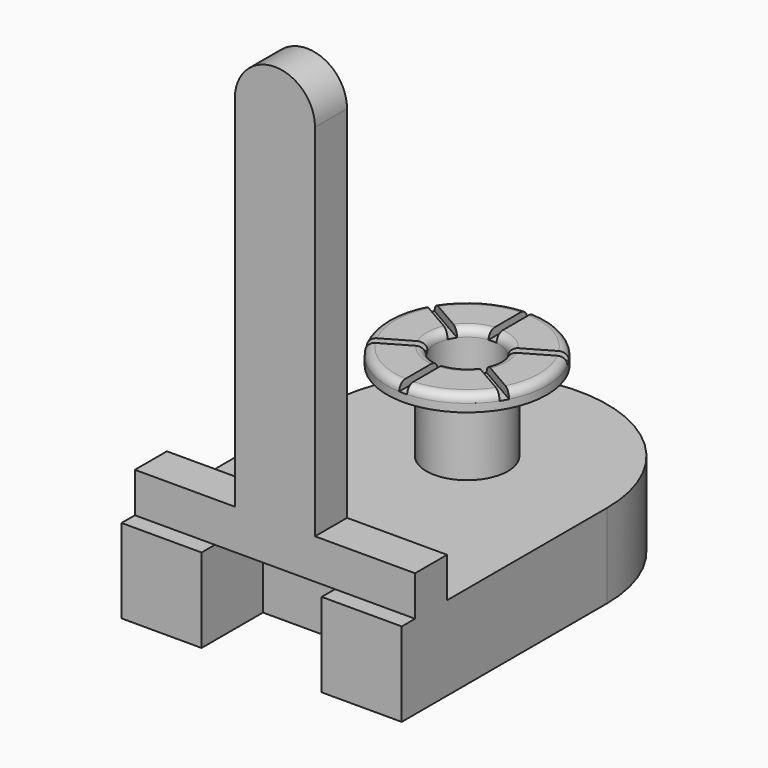
from build123d import *

# Parameters (mm, degrees)
SKETCH057_R           = 0.5
SKETCH057_W           = 1.5
SKETCH057_H           = 1
PAD032_DEPTH          = 0.5
PAD032_DEPTH_BACK     = 0.55
SKETCH058_W           = 4.919434
SKETCH058_H           = 5.037946
POCKET024_DEPTH       = 1.05
POCKET024_DEPTH_BACK  = 1.55
SKETCH063_W           = 1.496239
SKETCH063_H           = 0.320585
POCKET027_DEPTH       = 5
SKETCH059_R           = 0.51
SKETCH059_R_2         = 0.4
PAD033_DEPTH          = 1.5
SKETCH060_R           = 1
PAD034_DEPTH          = 0.2
SKETCH061_R           = 0.4
POCKET025_DEPTH       = 1
FILLET026_R           = 0.1
SKETCH062_W           = 0.1
SKETCH062_H           = 1.784702
POCKET026_DEPTH       = 0.1
POLARPATTERN007_COUNT = 6
PAD035_DEPTH          = 0.25


with BuildPart() as part:
    # Sketch057 → Pad032 (new body, two sides)
    with BuildSketch(Plane.XY) as pad032_sk:
        with BuildLine():
            ThreePointArc((1.75, 0), (0, 1.75), (-1.75, 0))
            Line((-1.75, 0), (-1.75, -4.25))
            Line((-1.75, -4.25), (-1.75, -8))
            Line((-1.75, -8), (1.75, -8))
            Line((1.75, -8), (1.75, -4.25))
            Line((1.75, -4.25), (1.75, 0))
        make_face()
        Circle(SKETCH057_R, mode=Mode.SUBTRACT)
        with Locations((0, -2.75)):
            Rectangle(SKETCH057_W, SKETCH057_H, mode=Mode.SUBTRACT)
    extrude(amount=PAD032_DEPTH)
    extrude(pad032_sk.sketch, amount=-PAD032_DEPTH_BACK)

    # Sketch058 → Pocket024 (cut, two sides)
    with BuildSketch(Plane.XY) as pocket024_sk:
        with Locations((-0.357018, -5.727314)):
            Rectangle(SKETCH058_W, SKETCH058_H)
    extrude(amount=-POCKET024_DEPTH, mode=Mode.SUBTRACT)
    extrude(pocket024_sk.sketch, amount=POCKET024_DEPTH_BACK, mode=Mode.SUBTRACT)

    # Sketch063 → Pocket027 (cut)
    with BuildSketch(Plane.XY):
        with Locations((-0.005068, -3.405655)):
            Rectangle(SKETCH063_W, SKETCH063_H)
    extrude(amount=-POCKET027_DEPTH, mode=Mode.SUBTRACT)

    # Sketch059 → Pad033 (join)
    with BuildSketch(Plane.XY):
        Circle(SKETCH059_R)
        Circle(SKETCH059_R_2, mode=Mode.SUBTRACT)
    extrude(amount=PAD033_DEPTH)

    # Sketch060 → Pad034 (join)
    with BuildSketch(Plane.XY.offset(1.5)):
        Circle(SKETCH060_R)
    extrude(amount=PAD034_DEPTH)

    # Sketch061 → Pocket025 (cut)
    with BuildSketch(Plane.XY.offset(1.7)):
        Circle(SKETCH061_R)
    extrude(amount=-POCKET025_DEPTH, mode=Mode.SUBTRACT)

    # Fillet026
    fillet026_edges = [part.edges().sort_by_distance(p)[0] for p in [
        (-0.4, 0, 1.7),
        (-1, 0, 1.7),
    ]]
    fillet(fillet026_edges, radius=FILLET026_R)

    # Sketch062 → Pocket026 (cut)
    with BuildSketch(Plane.XY.offset(1.7)):
        with Locations((0, 0.892351)):
            Rectangle(SKETCH062_W, SKETCH062_H)
    pocket026 = extrude(amount=-POCKET026_DEPTH, mode=Mode.SUBTRACT)

    # PolarPattern007: Pocket026 ×6 about axis
    polarpattern007_axis = Axis((0, 0, 1.7), (0, 0, 1))
    for i in range(1, POLARPATTERN007_COUNT):
        add(pocket026.rotate(polarpattern007_axis, i * 360 / POLARPATTERN007_COUNT), mode=Mode.SUBTRACT)

    # Sketch064 → Pad035 (join, symmetric)
    with BuildSketch(Plane(origin=(0, -2.75, -0.05), x_dir=(-1, 0, 0), z_dir=(0, -1, 0))):
        with BuildLine():
            Line((-1.75, -0.55), (1.75, -0.55))
            Line((1.75, -0.55), (1.75, -1.05))
            Line((0.5, -1.05), (1.75, -1.05))
            Line((0.5, -5.55), (0.5, -1.05))
            ThreePointArc((-0.5, -5.55), (0, -6.05), (0.5, -5.55))
            Line((-0.5, -1.05), (-0.5, -5.55))
            Line((-1.75, -1.05), (-0.5, -1.05))
            Line((-1.75, -1.05), (-1.75, -0.55))
        make_face()
    extrude(amount=PAD035_DEPTH, both=True)


with BuildPart() as part_1:
    # Body022 placement: moved
    add(part.part.moved(Location((5, 0, 0))))


solid = part_1.part
